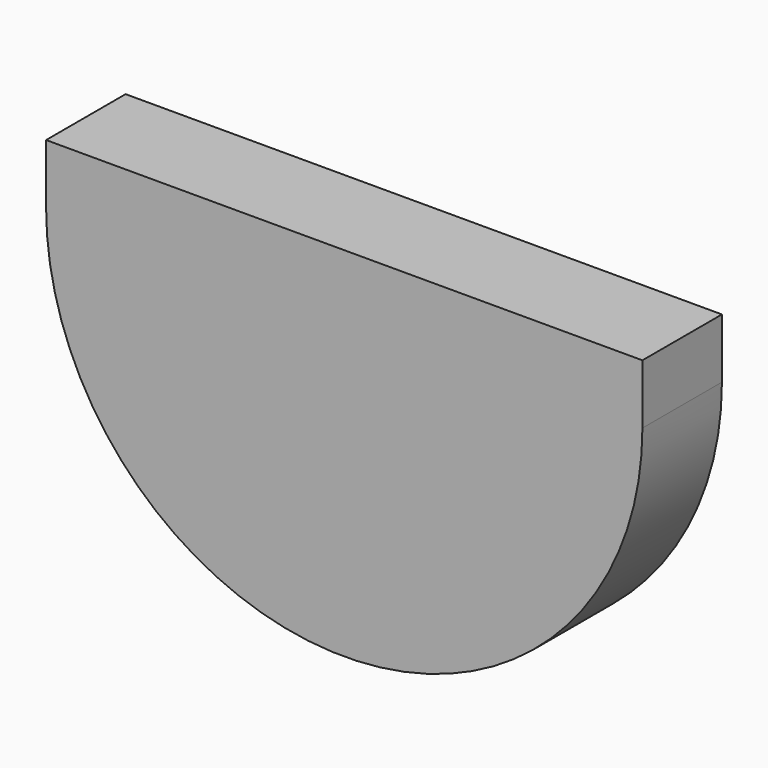
from build123d import *

# Parameters (mm, degrees)
F1_DEPTH = 2.5


with BuildPart() as f1:
    # F0 (on Front) → F1 (new body, symmetric)
    with BuildSketch(Plane.XZ):
        Polygon((-15, 0), (0, 0), (15, 0), (15, 3), (-15, 3), align=None)
        with BuildLine():
            Line((15, 0), (0, 0))
            Line((0, 0), (-15, 0))
            ThreePointArc((-15, 0), (0, -15), (15, 0))
        make_face()
    extrude(amount=F1_DEPTH, both=True)


solid = f1.part
